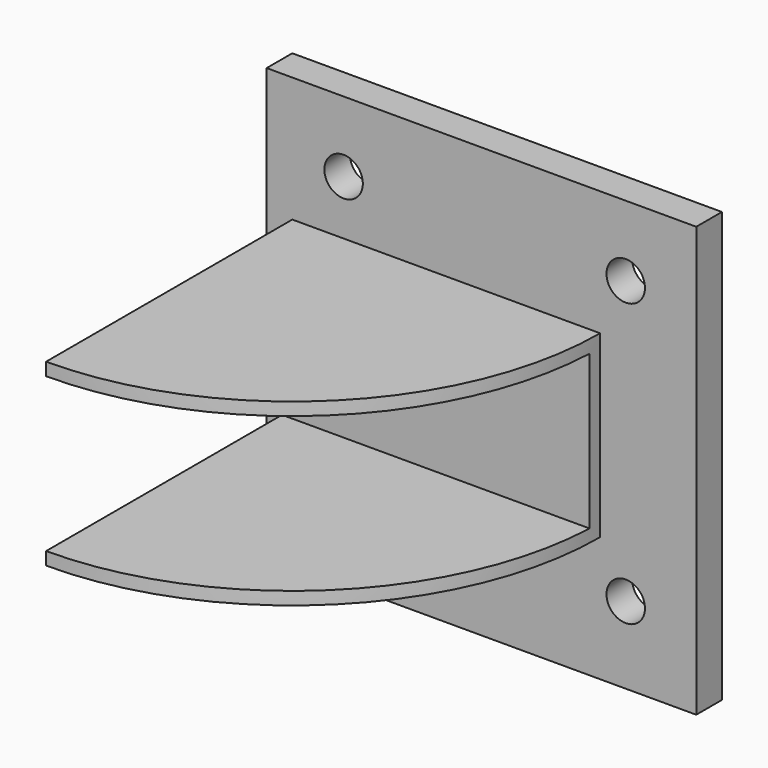
from build123d import *

# Parameters (mm, degrees)
F1_DEPTH = 14
F2_W     = 46
F2_H     = 24
F3_DEPTH = 55
F4_R     = 0.997642
F5_DEPTH = 2.5
F6_W     = 67
F6_H     = 67
F7_DEPTH = 5
F8_R     = 3
F9_DEPTH = 25


with BuildPart() as f1:
    # F0 (on Top) → F1 (new body, symmetric)
    with BuildSketch(Plane.XY):
        with BuildLine():
            Line((43, 42), (-5, 42))
            Line((-5, 42), (-5, -6))
            ThreePointArc((-5, -6), (28.941125, 8.058875), (43, 42))
        make_face()
    extrude(amount=F1_DEPTH, both=True)

    # F2 (on face) → F3 (cut)
    with BuildSketch(Plane(origin=(-5, 0, 0), x_dir=(0, -1, 0), z_dir=(-1, 0, 0))):
        with Locations((-17, 0)):
            Rectangle(F2_W, F2_H)
    extrude(amount=-F3_DEPTH, mode=Mode.SUBTRACT)

    # F4 (on face) → F5 (join)
    with BuildSketch(Plane.XY.offset(14)):
        Circle(F4_R)
    extrude(amount=-F5_DEPTH)

    # F6 (on face) → F7 (join)
    with BuildSketch(Plane(origin=(0, 42, 0), x_dir=(-1, 0, 0), z_dir=(0, 1, 0))):
        with Locations((-24.5, 0)):
            Rectangle(F6_W, F6_H)
    extrude(amount=F7_DEPTH)

    # F8 (on face) → F9 (cut)
    with BuildSketch(Plane(origin=(0, 47, 0), x_dir=(-1, 0, 0), z_dir=(0, 1, 0))):
        with Locations((-47, 22.5)):
            Circle(F8_R)
        with Locations((-3, 22.5)):
            Circle(F8_R)
        with Locations((-47, -21.5)):
            Circle(F8_R)
        with Locations((-3, -21.5)):
            Circle(F8_R)
    extrude(amount=-F9_DEPTH, mode=Mode.SUBTRACT)


solid = f1.part
